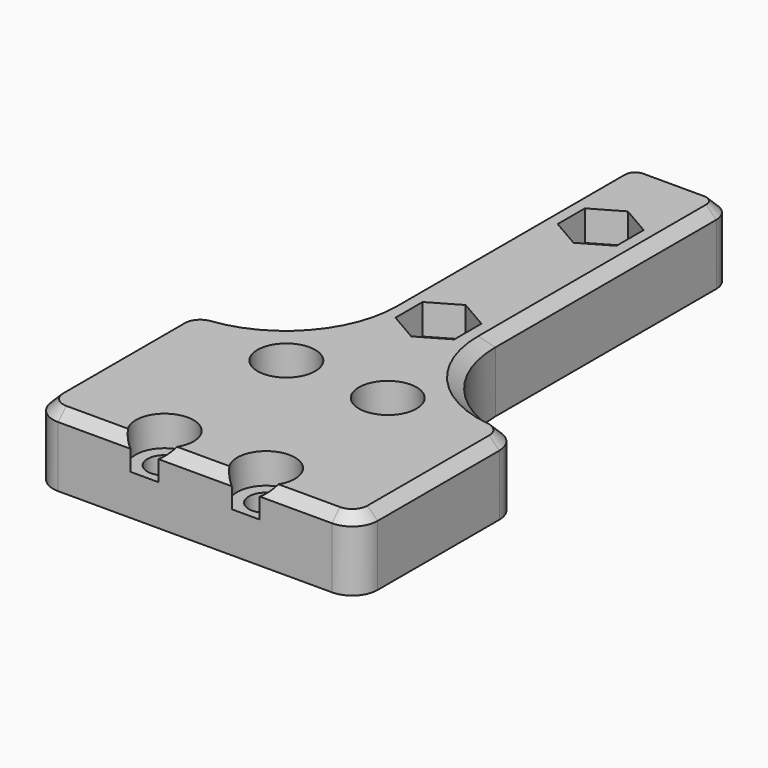
from build123d import *

# Parameters (mm, degrees)
PAD006_DEPTH     = 0.2
PRISM003_DEPTH   = 4
PRISM004_DEPTH   = 4
PAD_DEPTH        = 6
HOLE_D           = 3.4
HOLE_DEPTH       = 25
HOLE_CBORE_D     = 5.7
HOLE_CBORE_DEPTH = 3
SKETCH004_R      = 1.25
HOLE001_DEPTH    = 25


with BuildPart() as railnutholes:
    # Sketch009 → Pad006 (new body)
    with BuildSketch(Plane.XY.offset(8)):
        with BuildLine():
            ThreePointArc((1.5, 40), (0, 41.5), (-1.5, 40))
            Line((-1.5, 40), (-1.5, 20))
            ThreePointArc((-1.5, 20), (0, 18.5), (1.5, 20))
            Line((1.5, 20), (1.5, 40))
        make_face()
    extrude(amount=PAD006_DEPTH)

    # Prism003 → Prism003 (join)
    with BuildSketch(Plane(origin=(0, 20, 8), x_dir=(0, 1, 0), z_dir=(0, 0, -1))):
        Polygon((3.35, 0), (1.675, 2.901185), (-1.675, 2.901185), (-3.35, 0), (-1.675, -2.901185), (1.675, -2.901185), align=None)
    extrude(amount=PRISM003_DEPTH)

    # Prism004 → Prism004 (join)
    with BuildSketch(Plane(origin=(0, 40, 8), x_dir=(0, 1, 0), z_dir=(0, 0, -1))):
        Polygon((3.35, 0), (1.675, 2.901185), (-1.675, 2.901185), (-3.35, 0), (-1.675, -2.901185), (1.675, -2.901185), align=None)
    extrude(amount=PRISM004_DEPTH)


with BuildPart() as carriagebasemain:
    # Sketch → Pad (new body)
    with BuildSketch(Plane.XY.offset(6)):
        with BuildLine():
            Line((-16, -7.5), (-16, 7.5))
            ThreePointArc((-13.962963, 9.956759), (-15.424501, 9.095712), (-16, 7.5))
            ThreePointArc((-13.962963, 9.956759), (-7.532196, 13.745367), (-5, 20.766499))
            Line((-5, 20.766499), (-5, 48))
            ThreePointArc((-3, 50), (-4.414214, 49.414214), (-5, 48))
            Line((-3, 50), (3, 50))
            ThreePointArc((5, 48), (4.414214, 49.414214), (3, 50))
            Line((5, 48), (5, 20.766499))
            ThreePointArc((5, 20.766499), (7.532196, 13.745367), (13.962963, 9.956759))
            ThreePointArc((16, 7.5), (15.424501, 9.095712), (13.962963, 9.956759))
            Line((16, 7.5), (16, -7.5))
            ThreePointArc((13.5, -10), (15.267767, -9.267767), (16, -7.5))
            Line((13.5, -10), (-13.5, -10))
            ThreePointArc((-16, -7.5), (-15.267767, -9.267767), (-13.5, -10))
        make_face()
    extrude(amount=-PAD_DEPTH)

    # Sketch → AdditiveLoft section 0
    with BuildSketch(Plane.XY.offset(6)):
        with BuildLine():
            Line((-16, -7.5), (-16, 7.5))
            ThreePointArc((-13.962963, 9.956759), (-15.424501, 9.095712), (-16, 7.5))
            ThreePointArc((-13.962963, 9.956759), (-7.532196, 13.745367), (-5, 20.766499))
            Line((-5, 20.766499), (-5, 48))
            ThreePointArc((-3, 50), (-4.414214, 49.414214), (-5, 48))
            Line((-3, 50), (3, 50))
            ThreePointArc((5, 48), (4.414214, 49.414214), (3, 50))
            Line((5, 48), (5, 20.766499))
            ThreePointArc((5, 20.766499), (7.532196, 13.745367), (13.962963, 9.956759))
            ThreePointArc((16, 7.5), (15.424501, 9.095712), (13.962963, 9.956759))
            Line((16, 7.5), (16, -7.5))
            ThreePointArc((13.5, -10), (15.267767, -9.267767), (16, -7.5))
            Line((13.5, -10), (-13.5, -10))
            ThreePointArc((-16, -7.5), (-15.267767, -9.267767), (-13.5, -10))
        make_face()
    # Sketch001 → AdditiveLoft section 1
    with BuildSketch(Plane.XY.offset(7)):
        with BuildLine():
            Line((-15, -7.5), (-15, 7.5))
            ThreePointArc((-13.68, 8.989161), (-14.622497, 8.494987), (-15, 7.5))
            ThreePointArc((-13.68, 8.989161), (-6.768354, 12.613099), (-4, 19.909674))
            Line((-4, 19.909674), (-4, 48))
            ThreePointArc((-3, 49), (-3.707107, 48.707107), (-4, 48))
            Line((-3, 49), (3, 49))
            ThreePointArc((4, 48), (3.707107, 48.707107), (3, 49))
            Line((4, 48), (4, 19.909674))
            ThreePointArc((4, 19.909674), (6.768354, 12.613099), (13.68, 8.989161))
            ThreePointArc((15, 7.5), (14.622497, 8.494987), (13.68, 8.989161))
            Line((15, 7.5), (15, -7.5))
            ThreePointArc((13.5, -9), (14.56066, -8.56066), (15, -7.5))
            Line((13.5, -9), (-13.5, -9))
            ThreePointArc((-15, -7.5), (-14.56066, -8.56066), (-13.5, -9))
        make_face()
    loft()

    # Hole
    with Locations(Plane.XY.offset(7)):
        with Locations((-5, 7.5), (5, 7.5), (-5, -7.5), (5, -7.5)):
            CounterBoreHole(HOLE_D / 2, HOLE_CBORE_D / 2, HOLE_CBORE_DEPTH, depth=HOLE_DEPTH)

    # Sketch004 → Hole001 (cut)
    with BuildSketch(Plane.XY):
        with Locations((0, 20)):
            Circle(SKETCH004_R)
        with Locations((0, 40)):
            Circle(SKETCH004_R)
    extrude(amount=HOLE001_DEPTH, mode=Mode.SUBTRACT)

    # Boolean: cut RailNutHoles
    add(railnutholes.part, mode=Mode.SUBTRACT)


solid = carriagebasemain.part
